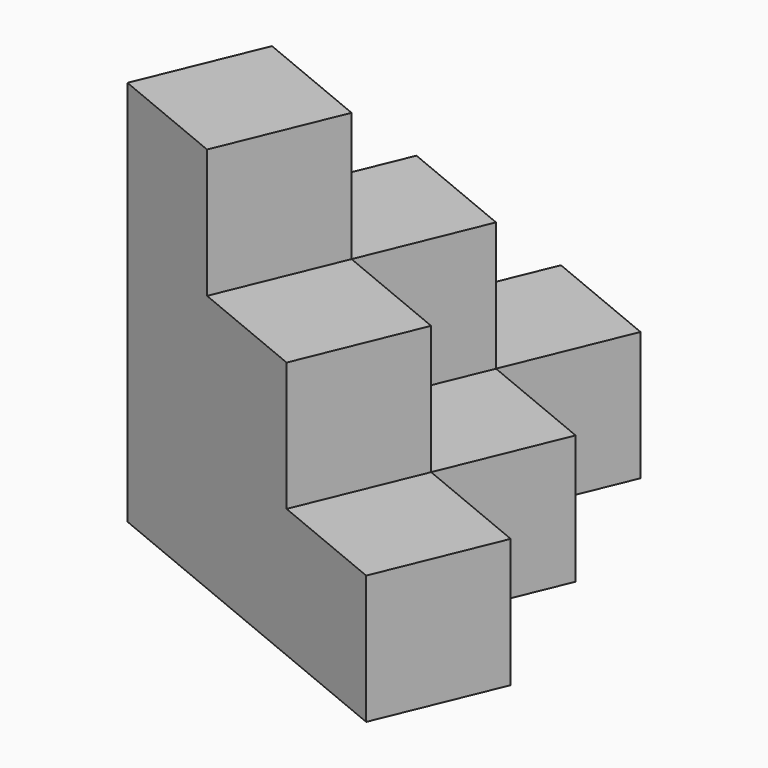
from build123d import *

# Parameters (mm, degrees)
BOX001_W                  = 20
BOX001_H                  = 10
BOX001_DEPTH              = 20
BOX002_W                  = 10
BOX002_H                  = 20
BOX002_DEPTH              = 10
BOX003_W                  = 10
BOX003_H                  = 10
BOX003_DEPTH              = 10
BOX004_W                  = 30
BOX004_H                  = 10
BOX004_DEPTH              = 10
BOX005_W                  = 10
BOX005_H                  = 20
BOX005_DEPTH              = 20
BOX006_W                  = 10
BOX006_H                  = 30
BOX006_DEPTH              = 10
BOX007_W                  = 10
BOX007_H                  = 10
BOX007_DEPTH              = 10
BOX_W                     = 10
BOX_H                     = 10
BOX_DEPTH                 = 30
FUSION001_PLACEMENT_ANGLE = 337.5


with BuildPart() as cub001:
    # Box001 → Box001 (new body)
    with BuildSketch(Plane.XY):
        with Locations((10, 5)):
            Rectangle(BOX001_W, BOX001_H)
    extrude(amount=BOX001_DEPTH)


with BuildPart() as cub002:
    # Box002 → Box002 (new body)
    with BuildSketch(Plane.XY):
        with Locations((5, 10)):
            Rectangle(BOX002_W, BOX002_H)
    extrude(amount=BOX002_DEPTH)


with BuildPart() as cub003:
    # Box003 → Box003 (new body)
    with BuildSketch(Plane.XY):
        with Locations((5, 5)):
            Rectangle(BOX003_W, BOX003_H)
    extrude(amount=BOX003_DEPTH)


with BuildPart() as cub004:
    # Box004 → Box004 (new body)
    with BuildSketch(Plane.XY):
        with Locations((15, 5)):
            Rectangle(BOX004_W, BOX004_H)
    extrude(amount=BOX004_DEPTH)


with BuildPart() as cub005:
    # Box005 → Box005 (new body)
    with BuildSketch(Plane.XY):
        with Locations((5, 10)):
            Rectangle(BOX005_W, BOX005_H)
    extrude(amount=BOX005_DEPTH)


with BuildPart() as cub006:
    # Box006 → Box006 (new body)
    with BuildSketch(Plane.XY):
        with Locations((5, 15)):
            Rectangle(BOX006_W, BOX006_H)
    extrude(amount=BOX006_DEPTH)


with BuildPart() as cub007:
    # Box007 → Box007 (new body)
    with BuildSketch(Plane(origin=(10, 10, 0), x_dir=(1, 0, 0), z_dir=(0, 0, 1))):
        with Locations((5, 5)):
            Rectangle(BOX007_W, BOX007_H)
    extrude(amount=BOX007_DEPTH)


with BuildPart() as fusion001:
    # Box → Box (new body)
    with BuildSketch(Plane.XY):
        with Locations((5, 5)):
            Rectangle(BOX_W, BOX_H)
    extrude(amount=BOX_DEPTH)

    # Fusion: union Cub001, Cub002, Cub003, Cub004, Cub005, Cub006, Cub007
    add(cub001.part)
    add(cub002.part)
    add(cub003.part)
    add(cub004.part)
    add(cub005.part)
    add(cub006.part)
    add(cub007.part)


with BuildPart() as fusion001_1:
    # Fusion001 placement: moved
    add(fusion001.part.moved(Location((-13.858193, -5.740251, 0))).rotate(Axis((-13.858193, -5.740251, 0), (0, 0, 1)), FUSION001_PLACEMENT_ANGLE))


solid = fusion001_1.part
